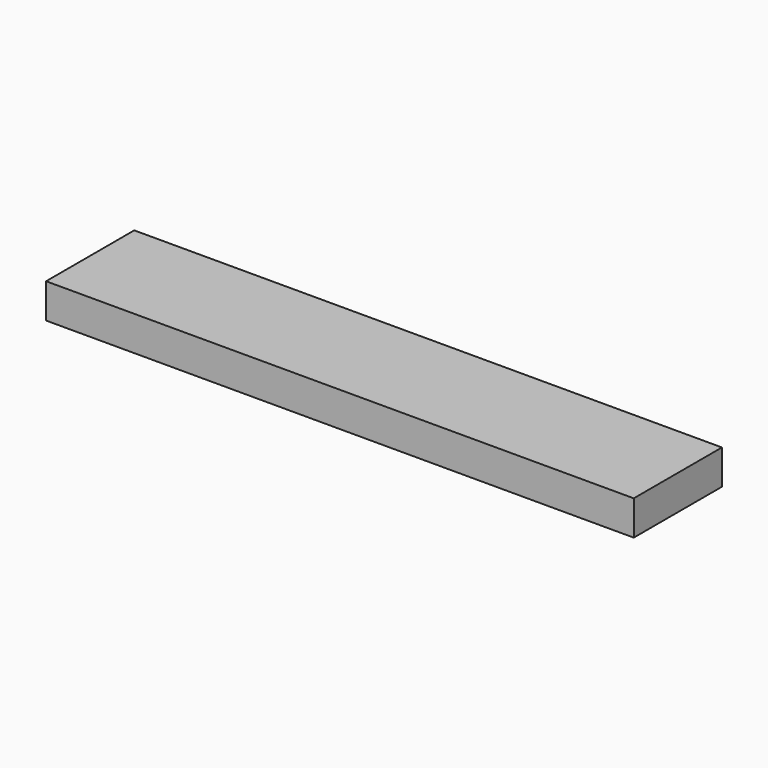
from build123d import *

# Parameters (mm, degrees)
SKETCH_W  = 406.36
SKETCH_H  = 76.2
PAD_DEPTH = 23.94


with BuildPart() as part:
    # Sketch → Pad (new body)
    with BuildSketch(Plane.XY):
        with Locations((203.18, -38.1)):
            Rectangle(SKETCH_W, SKETCH_H)
    extrude(amount=PAD_DEPTH)


solid = part.part
